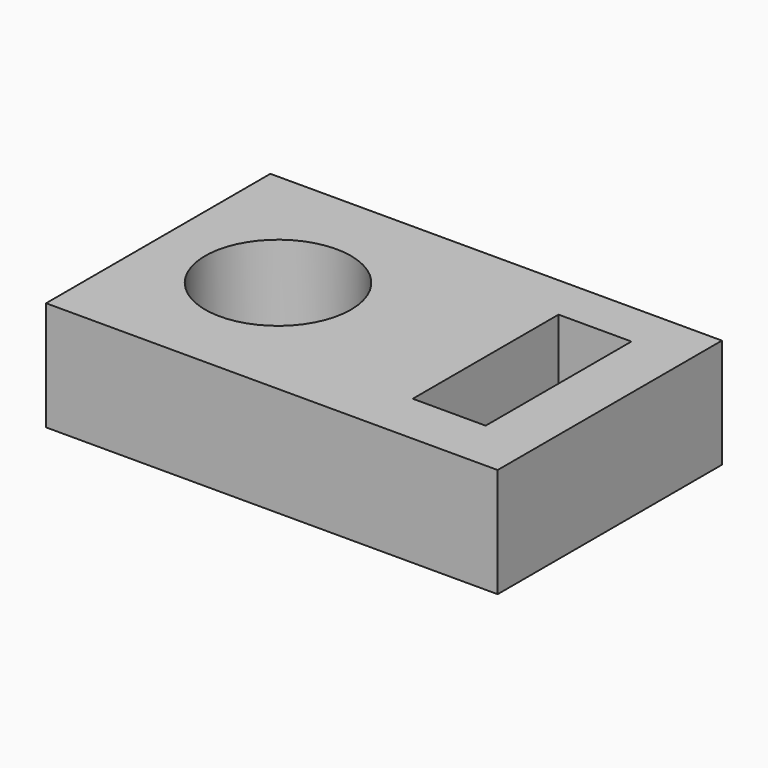
from build123d import *

# Parameters (mm, degrees)
F0_W     = 12.390755
F0_H     = 7.692476
F0_R     = 2
F0_W_2   = 2
F0_H_2   = 5
F1_DEPTH = 3


with BuildPart() as f1:
    # F0 (on Top) → F1 (new body)
    with BuildSketch(Plane.XY):
        with Locations((-3.941221, 5.95314)):
            Rectangle(F0_W, F0_H)
        with Locations((-6.848117, 5.95314)):
            Circle(F0_R, mode=Mode.SUBTRACT)
        with Locations((-0.232733, 6.054369)):
            Rectangle(F0_W_2, F0_H_2, mode=Mode.SUBTRACT)
    extrude(amount=F1_DEPTH)


solid = f1.part
